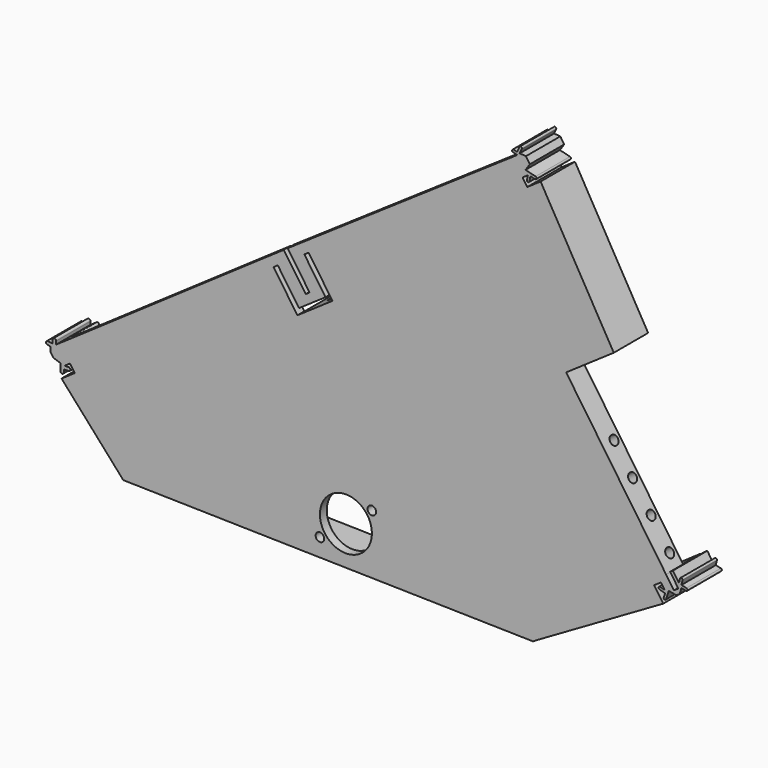
from build123d import *

# Parameters (mm, degrees)
PAD_DEPTH       = 20
POCKET004_DEPTH = 10
POCKET001_DEPTH = 17.4
SKETCH004_R     = 2.15
POCKET003_DEPTH = 15
SKETCH007_R     = 2.15
POCKET_DEPTH    = 37
SKETCH008_R     = 2.15
POCKET005_DEPTH = 10
SKETCH005_R     = 12.1
SKETCH005_R_2   = 2
PAD001_DEPTH    = 4
SKETCH009_R     = 7.5
PAD002_DEPTH    = 8
SKETCH010_R     = 2.15
POCKET006_DEPTH = 8


with BuildPart() as part:
    # Sketch → Pad (new body)
    with BuildSketch(Plane.XZ):
        with BuildLine():
            Line((4.0389999215, 42.5749876661), (2.65554232, 42.7947220429))
            ThreePointArc((2.9065240645, 44.3749144882), (1.9909369697, 43.7103091378), (2.65554232, 42.7947220429))
            Line((2.9065240645, 44.3749144882), (5.0304287832, 44.0375749995))
            Line((5.0304287832, 44.0375749995), (5.0304287832, 45.6803340803))
            ThreePointArc((6.6304287832, 45.6803340803), (5.8304287832, 46.4803340803), (5.0304287832, 45.6803340803))
            Line((6.6304287832, 45.6803340803), (6.6304287832, 44.1673826739))
            Line((6.6304287832, 44.1673826739), (8.4415552878, 45.4119716817))
            Line((8.4415552878, 45.4119716817), (9.4478356401, 46.1368713386))
            ThreePointArc((10.3621773687, 44.8642380551), (10.5421249478, 45.9583016271), (9.4478356401, 46.1368713386))
            Line((10.3621773687, 44.8642380551), (7.8490460164, 43.0634365917))
            Line((7.8490460164, 43.0634365917), (5.6389999215, 41.5447138136))
            Line((5.6389999215, 41.5447138136), (7.0548889855, 39.4843113873))
            Line((7.0548889855, 39.4843113873), (12.3295191968, 43.1089873912))
            Line((12.3295191968, 43.1089873912), (38.948233601, 4.3734217768))
            Line((134.8805705695, 70.297216599), (38.948233601, 4.3734217768))
            Line((119.305790865, 92.9616432883), (134.8805705695, 70.297216599))
            Line((134.9648493048, 103.722400175), (119.305790865, 92.9616432883))
            Line((142.0442946251, 93.4203880435), (134.9648493048, 103.722400175))
            Line((142.0442946251, 93.4203880435), (153.0527823524, 77.9305340853))
            Line((153.0527823524, 77.9305340853), (165.0024035036, 60.5414398134))
            Line((165.0024035036, 60.5414398134), (260.687492181, 126.2953279479))
            Line((260.687492181, 126.2953279479), (237.9766315936, 159.3441828657))
            Line((219.8532515738, 185.7173339224), (237.9766315936, 159.3441828657))
            Line((225.1278817851, 189.3420099263), (219.8532515738, 185.7173339224))
            Line((223.7119927211, 191.4024123526), (225.1278817851, 189.3420099263))
            Line((218.4373625097, 187.7777363487), (223.7119927211, 191.4024123526))
            Line((218.4373625097, 187.7777363487), (217.5311935087, 189.0963939015))
            Line((217.5311935087, 189.0963939015), (221.3847855834, 191.7445459354))
            Line((221.3847855834, 191.7445459354), (219.3797100852, 192.170938972))
            ThreePointArc((219.6293167368, 193.3446921486), (218.9176368227, 192.882618886), (219.3797100852, 192.170938972))
            Line((219.6293167368, 193.3446921486), (221.2499182947, 193.0000601284))
            Line((221.2499182947, 193.0000601284), (222.3399490261, 195.3337880811))
            ThreePointArc((223.4271977541, 194.8259591695), (223.1374878459, 195.6234979893), (222.3399490261, 195.3337880811))
            Line((223.4271977541, 194.8259591695), (222.4600969226, 192.7554209925))
            Line((222.4600969226, 192.7554209925), (225.3603146621, 192.5351236039))
            Line((225.3603146621, 192.5351236039), (227.2063997814, 189.8486996774))
            Line((227.2063997814, 189.8486996774), (225.1628423907, 186.8509880341))
            Line((225.1628423907, 186.8509880341), (229.8798569494, 185.6901424243))
            ThreePointArc((229.5930959709, 184.5249093398), (230.3190930024, 184.9641453928), (229.8798569494, 185.6901424243))
            Line((229.5930959709, 184.5249093398), (227.4496707489, 185.0524009826))
            Line((227.4496707489, 185.0524009826), (226.9444544706, 182.6614258938))
            ThreePointArc((225.771548638, 182.6560117607), (226.3601860514, 182.1854742091), (226.9444544706, 182.6614258938))
            Line((225.771548638, 182.6560117607), (226.2739055744, 185.0334547935))
            Line((226.2739055744, 185.0334547935), (223.7978510454, 183.3319335348))
            Line((223.7978510454, 183.3319335348), (226.0066379853, 180.1177057498))
            Line((226.0066379853, 180.1177057498), (232.1878452642, 184.365372942))
            Line((266.2495585655, 125.2641065683), (232.1878452642, 184.365372942))
            Line((244.0796284586, 110.0291402391), (266.2495585655, 125.2641065683))
            Line((290.6340608845, 42.2831084623), (244.0796284586, 110.0291402391))
            Line((294.2587368885, 37.008478251), (290.6340608845, 42.2831084623))
            Line((296.3191393148, 38.424367315), (294.2587368885, 37.008478251))
            Line((292.4602624187, 44.0398067738), (296.3191393148, 38.424367315))
            Line((292.4602624187, 44.0398067738), (293.7789199715, 44.9459757748))
            Line((293.7789199715, 44.9459757748), (296.6206071991, 40.810751196))
            Line((296.6206071991, 40.810751196), (297.0910989584, 42.7718237934))
            ThreePointArc((298.2579860864, 42.4918694569), (297.8145196907, 43.2152901891), (297.0910989584, 42.7718237934))
            Line((298.2579860864, 42.4918694569), (297.7424907939, 40.3432161125))
            Line((297.7424907939, 40.3432161125), (300.1208515514, 39.8397804262))
            ThreePointArc((299.8723496236, 38.6657928658), (300.5835943677, 39.1285356821), (300.1208515514, 39.8397804262))
            Line((299.8723496236, 38.6657928658), (297.7654069562, 39.1117765647))
            Line((297.7654069562, 39.1117765647), (296.952983451, 36.4332286099))
            Line((296.952983451, 36.4332286099), (295.3914481397, 35.36015631))
            Line((295.3914481397, 35.36015631), (291.8734642457, 36.02124884))
            Line((291.8734642457, 36.02124884), (290.5930300808, 32.2088535913))
            ThreePointArc((289.4324911908, 32.3007970199), (289.9768664604, 31.8017577275), (290.5930300808, 32.2088535913))
            Line((289.4324911908, 32.3007970199), (290.1466686614, 34.4272060697))
            Line((290.1466686614, 34.4272060697), (287.5314050616, 35.2037645635))
            ThreePointArc((287.8729844966, 36.3541225467), (287.1270157875, 35.9497332726), (287.5314050616, 35.2037645635))
            Line((287.8729844966, 36.3541225467), (290.0582057564, 35.7052578853))
            Line((290.0582057564, 35.7052578853), (288.248660497, 38.3385089907))
            Line((288.248660497, 38.3385089907), (285.034432712, 36.1297220508))
            Line((285.034432712, 36.1297220508), (289.2820999041, 29.9485147719))
            Line((289.2820999041, 29.9485147719), (228.6149276864, -5.1892742181))
            Line((37.9174947707, -1.1893468138), (228.6149276864, -5.1892742181))
            Line((9.1698866415, 31.1095406492), (37.9174947707, -1.1893468138))
            Line((15.3510939204, 35.3572078414), (9.1698866415, 31.1095406492))
            Line((13.1423069804, 38.5714356264), (15.3510939204, 35.3572078414))
            Line((10.6193023838, 36.8376507253), (13.1423069804, 38.5714356264))
            Line((12.456789603, 36.8376507253), (10.6193023838, 36.8376507253))
            ThreePointArc((12.456789603, 35.2376507253), (13.256789603, 36.0376507253), (12.456789603, 36.8376507253))
            Line((10.207394012, 35.2376507253), (12.456789603, 35.2376507253))
            Line((10.207394012, 33.9421349105), (10.207394012, 35.2376507253))
            ThreePointArc((8.607394012, 33.9421349105), (9.407394012, 33.1421349105), (10.207394012, 33.9421349105))
            Line((8.607394012, 37.2723114812), (8.607394012, 33.9421349105))
            Line((5.4065670445, 38.351600136), (8.607394012, 37.2723114812))
            Line((4.0389999215, 40.3416844512), (5.4065670445, 38.351600136))
            Line((4.0389999215, 40.3416844512), (4.0389999215, 42.5749876661))
        make_face()
        Polygon((149.7561384703, 75.6651115828), (163.971182124, 54.9793734288), (179.795072758, 65.8534014407), (225.8253519656, -1.1298823283), (43.5671319438, 2.6930304282), align=None, mode=Mode.SUBTRACT)
        Polygon((247.6318069807, 78.3748825832), (199.00630972, 44.9599006716), (229.646149066, 0.3727921664), (281.0213223864, 29.7864441936), align=None, mode=Mode.SUBTRACT)
    extrude(amount=PAD_DEPTH)

    # Sketch006 → Pocket004 (cut)
    with BuildSketch(Plane.XZ):
        Polygon((291.8154691607, 43.5532983952), (229.6803031775, 0.323320239), (193.027696, 53.659792), (184.530685, 47.990654), (178.024719, 57.651035), (186.3396484214, 63.3921652896), (183.0916284776, 68.1186482583), (245.422424, 110.825737), align=None)
    extrude(amount=POCKET004_DEPTH, mode=Mode.SUBTRACT)

    # Sketch002 → Pocket001 (cut)
    with BuildSketch(Plane.XZ):
        Polygon((240.839386, 107.681338), (254.396576976, 87.8772330508), (208.1871169974, 56.2436147234), (194.629852, 76.047669), align=None)
    extrude(amount=POCKET001_DEPTH, mode=Mode.SUBTRACT)

    # Sketch004 (on DatumPlane) → Pocket003 (cut)
    with BuildSketch(Plane(origin=(217.1470694031, 0, 149.2214127365), x_dir=(-0.5663556256, 0, 0.8241609705), z_dir=(0.8241609705, 0, 0.5663556256))):
        with Locations((-123.5, 13.5)):
            Circle(SKETCH004_R)
        with Locations((-93, 13.5)):
            Circle(SKETCH004_R)
        with Locations((-108.25, 13.5)):
            Circle(SKETCH004_R)
        with Locations((-77.75, 13.5)):
            Circle(SKETCH004_R)
    extrude(amount=-POCKET003_DEPTH, mode=Mode.SUBTRACT)

    # Sketch007 (on DatumPlane) → Pocket (cut)
    with BuildSketch(Plane(origin=(-5.1231693546, 0, 7.455238434), x_dir=(-0.8241609705, 0, -0.5663556256), z_dir=(-0.5663556256, 0, 0.8241609705))):
        with Locations((-160.5, 10)):
            Circle(SKETCH007_R)
    extrude(amount=-POCKET_DEPTH, mode=Mode.SUBTRACT)

    # Sketch008 (on DatumPlane) → Pocket005 (cut)
    with BuildSketch(Plane(origin=(28.496623251, 0, 19.5826100321), x_dir=(-0.5663556256, 0, 0.8241609705), z_dir=(0.8241609705, 0, 0.5663556256))):
        with Locations((-122.5, 13.5)):
            Circle(SKETCH008_R)
        with Locations((-92, 13.5)):
            Circle(SKETCH008_R)
    extrude(amount=-POCKET005_DEPTH, mode=Mode.SUBTRACT)

    # Sketch005 (on DatumPlane) → Pad001 (join)
    with BuildSketch(Plane.XZ.offset(20)):
        Polygon((5.6390093024, 41.5438867756), (7.0549059293, 39.4834895465), (13.31004, 39.773029), (37.917178458, -1.1893531666), (228.649104, -5.2387525299), (287.152954, 30.335571), (283.599121, 36.427879), (290.421173, 40.857933), (242.328964, 110.216705), (262.12204, 125.860641), (222.003006, 184.166046), (225.1273486637, 189.3419885374), (223.7114520368, 191.4023857666), (218.756056001, 189.9384309091), (114.4490881489, 118.7444485703), (124.6435438626, 103.9095885203), (122.8303943009, 102.6635994887), (112.6359385872, 117.4984595386), (8.4415504736, 45.4111549307), align=None)
        with Locations((141.5496774667, 14.6144979084)):
            Circle(SKETCH005_R, mode=Mode.SUBTRACT)
        with Locations((153.6381766572, 24.0175512593)):
            Circle(SKETCH005_R_2, mode=Mode.SUBTRACT)
        with Locations((129.4611782762, 5.2114445574)):
            Circle(SKETCH005_R_2, mode=Mode.SUBTRACT)
        Polygon((118.9759479588, 92.734690012), (135.2942940138, 103.948591297), (124.1936644589, 120.1021055736), (122.2156831189, 118.7428448118), (132.0703236421, 104.4024800969), (119.7079402671, 95.9071003355), (109.8532997439, 110.2474650504), (107.8753184039, 108.8882042886), align=None, mode=Mode.SUBTRACT)
    extrude(amount=-PAD001_DEPTH)

    # Sketch009 (on DatumPlane) → Pad002 (join)
    with BuildSketch(Plane(origin=(26.9325590555, 0, -39.1922724975), x_dir=(0.8241609705, 0, 0.5663556256), z_dir=(0.5663556256, 0, -0.8241609705))):
        with Locations((280, 10)):
            Circle(SKETCH009_R)
    extrude(amount=-PAD002_DEPTH)

    # Sketch010 (on DatumPlane) → Pocket006 (cut)
    with BuildSketch(Plane(origin=(26.9325590555, 0, -39.1922724975), x_dir=(0.8241609705, 0, 0.5663556256), z_dir=(0.5663556256, 0, -0.8241609705))):
        with Locations((280, 10)):
            Circle(SKETCH010_R)
    extrude(amount=-POCKET006_DEPTH, mode=Mode.SUBTRACT)


solid = part.part
